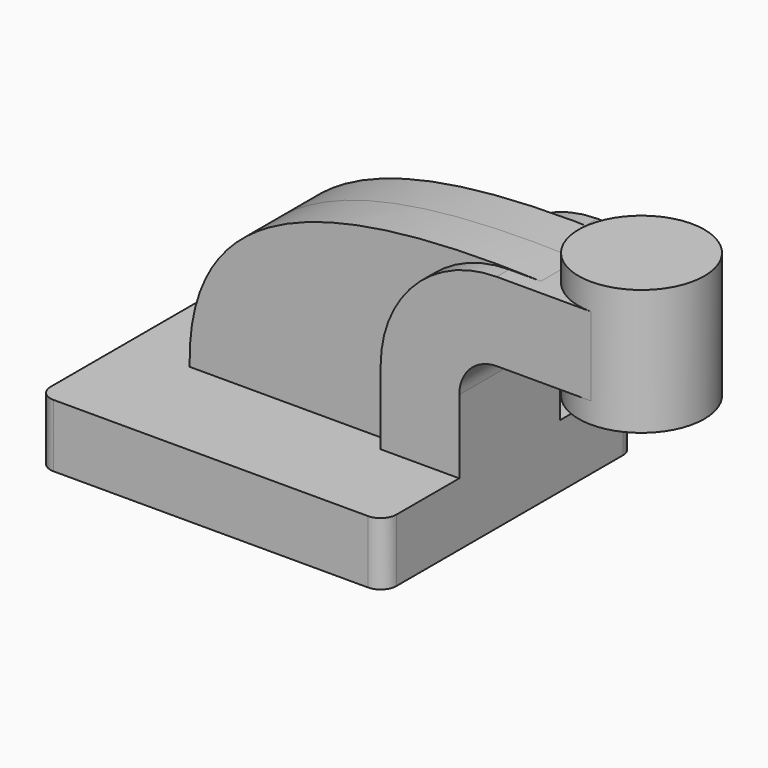
from build123d import *

# Parameters (mm, degrees)
F1_DEPTH = 63.5
F0_W     = 25.4
F0_H     = 31.75
F2_DEPTH = 25.4
F3_DEPTH = 19.05
F5_R     = 6.35


with BuildPart() as f1:
    # F0 (on Front) → F1 (new body, symmetric)
    with BuildSketch(Plane.XZ):
        Polygon((-69.85, -12.7), (69.85, -12.7), (69.85, 12.7), (38.1, 12.7), (-44.13639, 12.7), (-69.85, 12.7), align=None)
    extrude(amount=F1_DEPTH, both=True)

    # F0 (on Front) → F2 (join, symmetric)
    with BuildSketch(Plane.XZ):
        with BuildLine():
            Line((38.1, 12.7), (69.85, 12.7))
            Line((69.85, 12.7), (69.85, 42.418495))
            ThreePointArc((69.85, 42.418495), (74.270896, 53.091481), (84.943882, 57.512377))
            Line((84.943882, 57.512377), (97.725361, 57.512377))
            Line((97.725361, 57.512377), (97.725361, 89.262377))
            Line((97.725361, 89.262377), (84.943882, 89.262377))
            ThreePointArc((84.943882, 89.262377), (51.820255, 75.542121), (38.1, 42.418495))
            Line((38.1, 42.418495), (38.1, 12.7))
        make_face()
        with Locations((110.425361, 73.387377)):
            Rectangle(F0_W, F0_H)
    extrude(amount=F2_DEPTH, both=True)

    # F0 (on Front) → F3 (join, symmetric)
    with BuildSketch(Plane.XZ):
        with BuildLine():
            Line((-44.13639, 12.7), (38.1, 12.7))
            Line((38.1, 12.7), (38.1, 42.418495))
            ThreePointArc((38.1, 42.418495), (51.820255, 75.542121), (84.943882, 89.262377))
            Line((84.943882, 89.262377), (97.725361, 89.262377))
            add(Edge.make_bspline(
                [(-44.13639, 12.7), (-45.473855, 76.681405), (13.374661, 92.285179), (97.725361, 89.262377)],
                knots=[0, 0, 0, 0, 161.203455, 161.203455, 161.203455, 161.203455], degree=3))
        make_face()
    extrude(amount=F3_DEPTH, both=True)

    # F0 (on Front) → F4 (revolve)
    with BuildSketch(Plane.XZ):
        Polygon((123.125361, 99.877948), (123.125361, 89.262377), (123.125361, 57.512377), (123.125361, 49.077948), (148.525361, 49.077948), (148.525361, 99.877948), align=None)
    revolve(axis=Axis((123.125361, 0, 74.477948), (0, 0, 1)))

    # F5
    f5_edges = [f1.edges().sort_by_distance(p)[0] for p in [
        (-69.85, 63.5, 0),
        (69.85, 63.5, 0),
        (-69.85, -63.5, 0),
        (69.85, -63.5, 0),
    ]]
    fillet(f5_edges, radius=F5_R)


solid = f1.part
